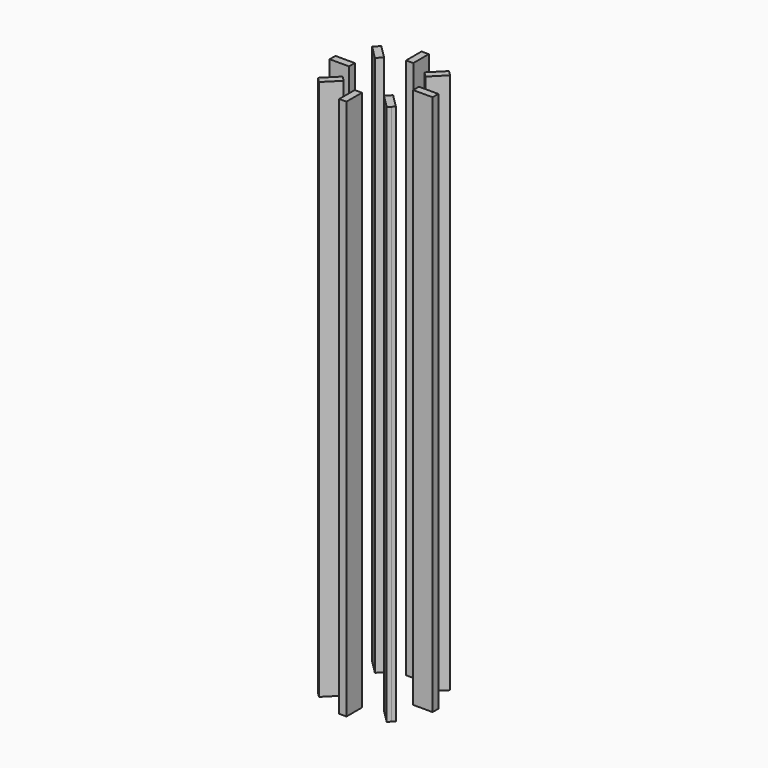
from build123d import *

# Parameters (mm, degrees)
F1_DEPTH = 1500


with BuildPart() as f1:
    # F0 (on Top) → F1 (new body)
    with BuildSketch(Plane.XY):
        Polygon((10, 88.9), (10, 142.599798), (0, 142.599798), (-10, 142.599798), (-10, 88.9), (0, 88.9), align=None)
        Polygon((69.932861, 55.790725), (107.904352, 93.762217), (100.833284, 100.833284), (93.762217, 107.904352), (55.790725, 69.932861), (62.861793, 62.861793), align=None)
        Polygon((142.599798, 0), (142.599798, 10), (88.9, 10), (88.9, 0), (88.9, -10), (142.599798, -10), align=None)
        Polygon((100.833284, -100.833284), (107.904352, -93.762217), (69.932861, -55.790725), (62.861793, -62.861793), (55.790725, -69.932861), (93.762217, -107.904352), align=None)
        Polygon((0, -142.599798), (10, -142.599798), (10, -88.9), (0, -88.9), (-10, -88.9), (-10, -142.599798), align=None)
        Polygon((-55.790725, 69.932861), (-93.762217, 107.904352), (-100.833284, 100.833284), (-107.904352, 93.762217), (-69.932861, 55.790725), (-62.861793, 62.861793), align=None)
        Polygon((-88.9, -10), (-88.9, 0), (-88.9, 10), (-142.599798, 10), (-142.599798, 0), (-142.599798, -10), align=None)
        Polygon((-55.790725, -69.932861), (-62.861793, -62.861793), (-69.932861, -55.790725), (-107.904352, -93.762217), (-100.833284, -100.833284), (-93.762217, -107.904352), align=None)
    extrude(amount=F1_DEPTH)


solid = f1.part
